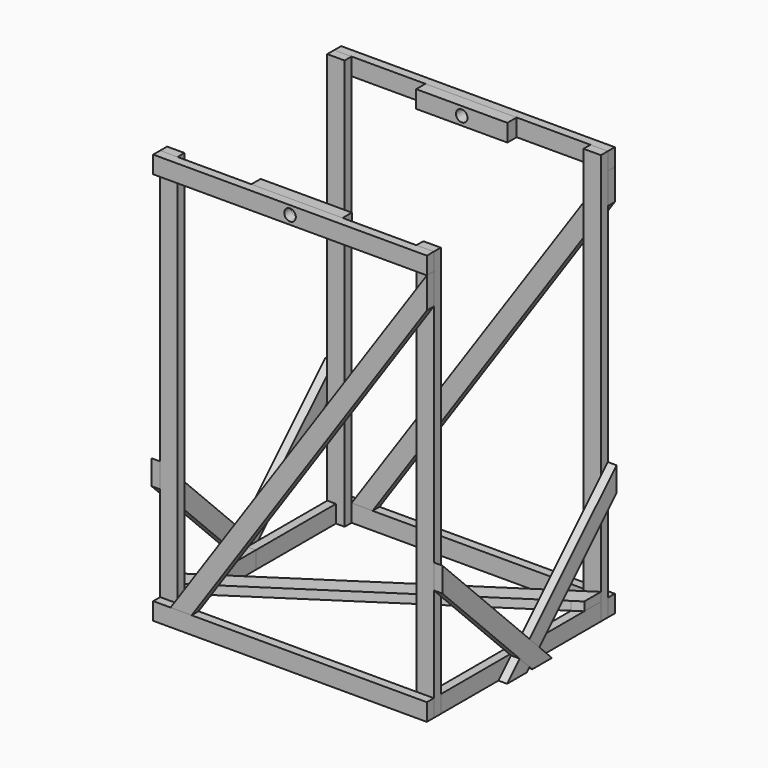
from build123d import *

# Parameters (mm, degrees)
F0_W      = 38.1
F0_H      = 38.1
F0_W_2    = 523.8
F1_DEPTH  = 19.05
F2_W      = 38.1
F2_H      = 861.9
F2_H_2    = 38.1
F3_DEPTH  = 19.05
F5_DEPTH  = 19.05
F6_R      = 12.7
F7_DEPTH  = 25
F8_W      = 19.05
F8_H      = 38.1
F9_DEPTH  = 219.45
F11_DEPTH = 19.05
F12_W     = 200
F12_H     = 38.1
F12_R     = 12.7
F13_DEPTH = 25.4
F17_DEPTH = 19.05


with BuildPart() as f1:
    # F0 (on Front) → F1 (new body)
    with BuildSketch(Plane.XZ):
        with Locations((-280.95, 880.95)):
            Rectangle(F0_W, F0_H)
        with Locations((0, 880.95)):
            Rectangle(F0_W_2, F0_H)
        with Locations((280.95, 880.95)):
            Rectangle(F0_W, F0_H)
    extrude(amount=-F1_DEPTH)

    # F6 (on face) → F7 (cut)
    with BuildSketch(Plane(origin=(0, 19.05, 0), x_dir=(-1, 0, 0), z_dir=(0, 1, 0))):
        with Locations((0, 880.95)):
            Circle(F6_R)
    extrude(amount=-F7_DEPTH, mode=Mode.SUBTRACT)


with BuildPart() as f1b:
    # F0 (on Front) → F1, piece 2 (new body)
    with BuildSketch(Plane.XZ):
        Polygon((-300, 38.1), (-300, 0), (300, 0), (300, 38.1), (261.9, 38.1), (-261.9, 38.1), align=None)
    extrude(amount=-F1_DEPTH)


with BuildPart() as f3:
    # F2 (on face) → F3 (new body)
    with BuildSketch(Plane.XZ):
        with Locations((-280.95, 430.95)):
            Rectangle(F2_W, F2_H)
        with Locations((-280.95, 880.95)):
            Rectangle(F2_W, F2_H_2)
    extrude(amount=F3_DEPTH)


with BuildPart() as f3b:
    # F2 (on face) → F3, piece 2 (new body)
    with BuildSketch(Plane.XZ):
        with Locations((280.95, 430.95)):
            Rectangle(F2_W, F2_H)
        with Locations((280.95, 880.95)):
            Rectangle(F2_W, F2_H_2)
    extrude(amount=F3_DEPTH)


with BuildPart() as f5:
    # F4 (on face) → F5 (new body)
    with BuildSketch(Plane(origin=(0, 0, 0), x_dir=(-1, 0, 0), z_dir=(0, 1, 0))):
        Polygon((-261.9, 806.041697811), (-300, 861.9), (-300, 794.285209285), (-261.9, 738.426907096), align=None)
        Polygon((261.9, 38.1), (-261.9, 806.041697811), (-261.9, 738.426907096), (215.7810986856, 38.1), align=None)
    extrude(amount=F5_DEPTH)


with BuildPart() as f9:
    # F8 (on face) → F9 (new body)
    with BuildSketch(Plane.XZ.offset(19.05)):
        with Locations((-290.475, 19.05)):
            Rectangle(F8_W, F8_H)
    extrude(amount=F9_DEPTH)


with BuildPart() as f9b:
    # F8 (on face) → F9, piece 2 (new body)
    with BuildSketch(Plane.XZ.offset(19.05)):
        with Locations((290.475, 19.05)):
            Rectangle(F8_W, F8_H)
    extrude(amount=F9_DEPTH)


with BuildPart() as f11:
    # F10 (on face) → F11 (new body)
    with BuildSketch(Plane(origin=(-300, 0, 0), x_dir=(0, -1, 0), z_dir=(-1, 0, 0))):
        Polygon((300, 0), (19.05, 280.95), (19.05, 227.0684632736), (246.1184632736, 0), align=None)
        Polygon((19.05, 280.95), (0, 300), (0, 246.1184632736), (19.05, 227.0684632736), align=None)
    extrude(amount=F11_DEPTH)


with BuildPart() as f13:
    # F12 (on face) → F13 (new body)
    with BuildSketch(Plane.XZ):
        with Locations((0, 880.95)):
            Rectangle(F12_W, F12_H)
        with Locations((0, 880.95)):
            Circle(F12_R, mode=Mode.SUBTRACT)
    extrude(amount=F13_DEPTH)


with BuildPart() as f14_1:
    # F14: instance of F11
    add(f11.part.mirror(Plane.YZ))


with BuildPart() as f15_1:
    # F15: instance of F1b
    add(f1b.part.mirror(Plane(origin=(-290.475, -238.5, 19.05), x_dir=(1, 0, 0), z_dir=(0, -1, 0))))


with BuildPart() as f15_2:
    # F15: instance of F1
    add(f1.part.mirror(Plane(origin=(-290.475, -238.5, 19.05), x_dir=(1, 0, 0), z_dir=(0, -1, 0))))


with BuildPart() as f15_3:
    # F15: instance of F3
    add(f3.part.mirror(Plane(origin=(-290.475, -238.5, 19.05), x_dir=(1, 0, 0), z_dir=(0, -1, 0))))


with BuildPart() as f15_4:
    # F15: instance of F3b
    add(f3b.part.mirror(Plane(origin=(-290.475, -238.5, 19.05), x_dir=(1, 0, 0), z_dir=(0, -1, 0))))


with BuildPart() as f15_5:
    # F15: instance of F5
    add(f5.part.mirror(Plane(origin=(-290.475, -238.5, 19.05), x_dir=(1, 0, 0), z_dir=(0, -1, 0))))


with BuildPart() as f15_6:
    # F15: instance of F9
    add(f9.part.mirror(Plane(origin=(-290.475, -238.5, 19.05), x_dir=(1, 0, 0), z_dir=(0, -1, 0))))


with BuildPart() as f15_7:
    # F15: instance of F9b
    add(f9b.part.mirror(Plane(origin=(-290.475, -238.5, 19.05), x_dir=(1, 0, 0), z_dir=(0, -1, 0))))


with BuildPart() as f15_8:
    # F15: instance of F11
    add(f11.part.mirror(Plane(origin=(-290.475, -238.5, 19.05), x_dir=(1, 0, 0), z_dir=(0, -1, 0))))


with BuildPart() as f15_9:
    # F15: instance of F14_1
    add(f14_1.part.mirror(Plane(origin=(-290.475, -238.5, 19.05), x_dir=(1, 0, 0), z_dir=(0, -1, 0))))


with BuildPart() as f15_10:
    # F15: instance of F13
    add(f13.part.mirror(Plane(origin=(-290.475, -238.5, 19.05), x_dir=(1, 0, 0), z_dir=(0, -1, 0))))


with BuildPart() as f17:
    # F16 (on face) → F17 (new body)
    with BuildSketch(Plane.XY.offset(38.1)):
        Polygon((280.95, -77.0959924044), (280.95, -31.5386287025), (-300, -412.392636298), (-300, -457.95), align=None)
        Polygon((300, -64.607363702), (300, -19.05), (280.95, -31.5386287025), (280.95, -77.0959924044), align=None)
    extrude(amount=F17_DEPTH)


solid = Compound([f1.part, f1b.part, f3.part, f3b.part, f5.part, f9.part, f9b.part, f11.part, f13.part, f14_1.part, f15_1.part, f15_2.part, f15_3.part, f15_4.part, f15_5.part, f15_6.part, f15_7.part, f15_8.part, f15_9.part, f15_10.part, f17.part])
